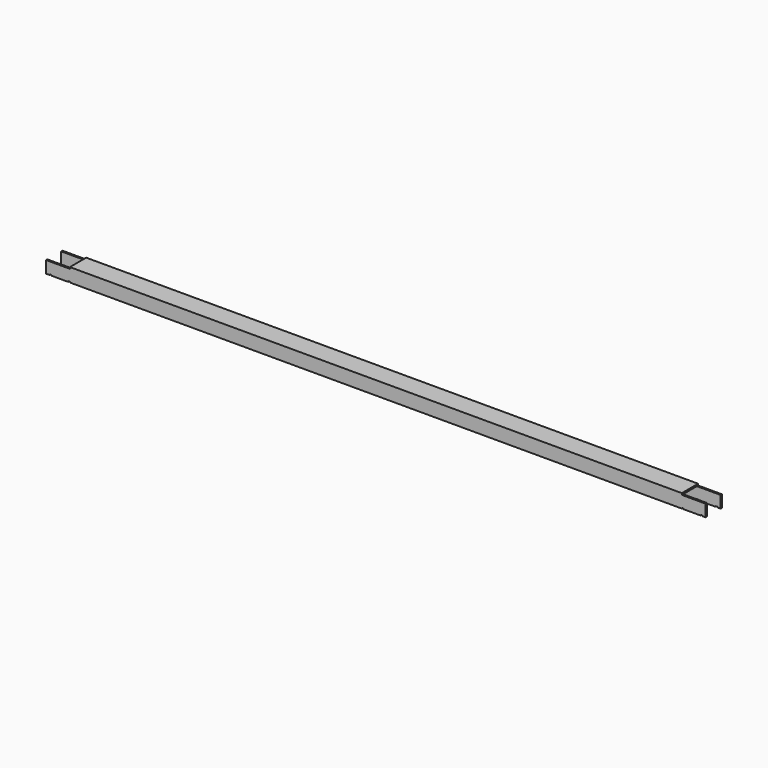
from build123d import *

# Parameters (mm, degrees)
F1_DEPTH = 970
F2_W     = 35
F2_H     = 30
F3_DEPTH = 2.3
F4_W     = 2.4
F4_H     = 1
F5_DEPTH = 30.001


with BuildPart() as f1:
    # F0 (on Right) → F1 (new body)
    with BuildSketch(Plane.YZ):
        Polygon((0, 20), (0, 0), (2.3, 0), (2.3, 17.7), (27.7, 17.7), (27.7, 0), (30, 0), (30, 20), align=None)
    extrude(amount=F1_DEPTH)

    # F2 (on face) → F3 (cut)
    with BuildSketch(Plane.XY.offset(20)):
        with Locations((17.5, 15)):
            Rectangle(F2_W, F2_H)
        with Locations((952.5, 15)):
            Rectangle(F2_W, F2_H)
    extrude(amount=-F3_DEPTH, mode=Mode.SUBTRACT)

    # F4 (on face) → F5 (cut, through all)
    with BuildSketch(Plane.XZ):
        with Locations((33.8, 0.5)):
            Rectangle(F4_W, F4_H)
        with Locations((6.2, 0.5)):
            Rectangle(F4_W, F4_H)
        with Locations((936.2, 0.5)):
            Rectangle(F4_W, F4_H)
        with Locations((963.8, 0.5)):
            Rectangle(F4_W, F4_H)
    extrude(amount=-F5_DEPTH, mode=Mode.SUBTRACT)


solid = f1.part
